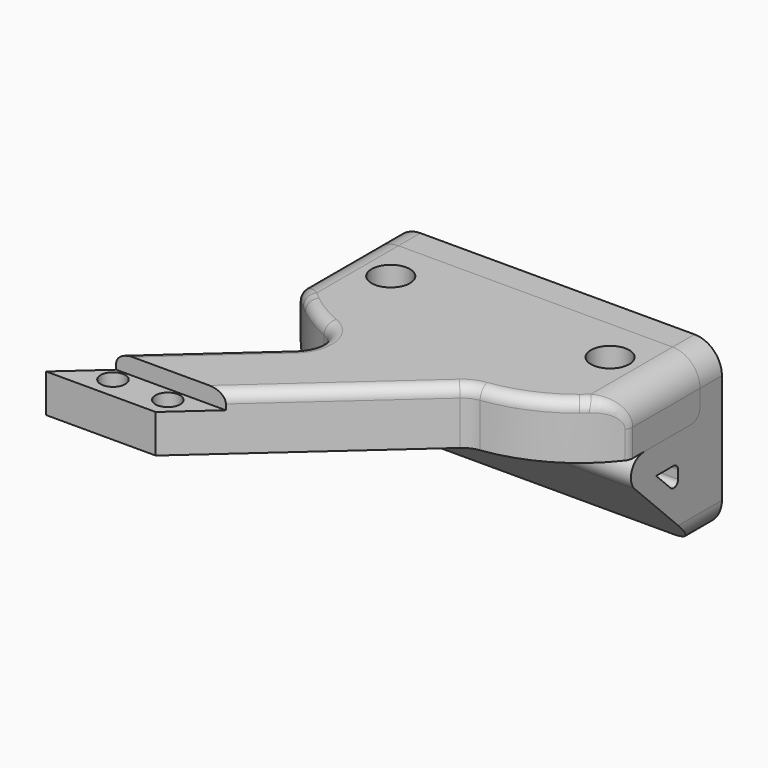
from build123d import *

# Parameters (mm, degrees)
SKETCH_W        = 60
SKETCH_H        = 30
SKETCH_R        = 1.7
PAD_DEPTH       = 5
PAD001_DEPTH    = 60
SKETCH002_R     = 2.25
POCKET_DEPTH    = 5
SKETCH003_R     = 3.5
POCKET001_DEPTH = 2
FILLET_R        = 3
FILLET001_R     = 5
FILLET002_R     = 1
FILLET003_R     = 2
SKETCH004_W     = 60
SKETCH004_H     = 10
PAD002_DEPTH    = 16
SKETCH005_R     = 1.7
POCKET002_DEPTH = 10
SKETCH006_R     = 3.5
POCKET003_DEPTH = 7
FILLET004_R     = 2
PAD003_DEPTH    = 10
PAD004_DEPTH    = 10
POCKET004_DEPTH = 3
SKETCH010_R     = 2.25
POCKET005_DEPTH = 5
FILLET005_R     = 5
FILLET006_R     = 5
FILLET007_R     = 5
FILLET008_R     = 2


with BuildPart() as base:
    # Sketch → Pad (new body)
    with BuildSketch(Plane.XZ):
        with Locations((0, -5)):
            Rectangle(SKETCH_W, SKETCH_H)
        with Locations((-20, 5)):
            Circle(SKETCH_R, mode=Mode.SUBTRACT)
        with Locations((20, 5)):
            Circle(SKETCH_R, mode=Mode.SUBTRACT)
    extrude(amount=PAD_DEPTH)

    # Sketch001 (on Face2 of Pad) → Pad001 (join)
    with BuildSketch(Plane(origin=(30, 0, 0), x_dir=(0, 0, 1), z_dir=(1, 0, 0))):
        Polygon((0, 5), (0, 25), (-20, 5), align=None)
        Polygon((-5, 15), (-5, 10), (-10, 10), align=None, mode=Mode.SUBTRACT)
    extrude(amount=-PAD001_DEPTH)

    # Sketch002 (on Face11 of Pad001) → Pocket (cut)
    with BuildSketch(Plane(origin=(0, 0, 0), x_dir=(-1, 0, 0), z_dir=(0, 0, 1))):
        with Locations((-20, 13)):
            Circle(SKETCH002_R)
        with Locations((20, 13)):
            Circle(SKETCH002_R)
    extrude(amount=-POCKET_DEPTH, mode=Mode.SUBTRACT)

    # Sketch003 (on Face5 of Pocket) → Pocket001 (cut)
    with BuildSketch(Plane.XZ.offset(5)):
        with Locations((-20, 5)):
            Circle(SKETCH003_R)
        with Locations((20, 5)):
            Circle(SKETCH003_R)
    extrude(amount=-POCKET001_DEPTH, mode=Mode.SUBTRACT)

    # Fillet
    fillet_edges = [base.edges().sort_by_distance(p)[0] for p in [
        (0, -25, 0),
    ]]
    fillet(fillet_edges, radius=FILLET_R)

    # Fillet001
    fillet001_edges = [base.edges().sort_by_distance(p)[0] for p in [
        (-30, -2.5, 10),
        (-30, -2.5, -20),
        (30, -2.5, 10),
        (30, -2.5, -20),
    ]]
    fillet(fillet001_edges, radius=FILLET001_R)

    # Fillet002
    fillet002_edges = [base.edges().sort_by_distance(p)[0] for p in [
        (0, -10, -10),
        (0, -10, -5),
    ]]
    fillet(fillet002_edges, radius=FILLET002_R)

    # Fillet003
    fillet003_edges = [base.edges().sort_by_distance(p)[0] for p in [
        (0, -5, 0),
    ]]
    fillet(fillet003_edges, radius=FILLET003_R)


with BuildPart() as arm0:
    # Sketch004 → Pad002 (new body)
    with BuildSketch(Plane.XZ):
        with Locations((0, 5)):
            Rectangle(SKETCH004_W, SKETCH004_H)
    extrude(amount=PAD002_DEPTH)

    # Sketch005 (on Face3 of Pad002) → Pocket002 (cut)
    with BuildSketch(Plane(origin=(0, 0, 10), x_dir=(-1, 0, 0), z_dir=(0, 0, 1))):
        with Locations((-20, 8)):
            Circle(SKETCH005_R)
        with Locations((20, 8)):
            Circle(SKETCH005_R)
    extrude(amount=-POCKET002_DEPTH, mode=Mode.SUBTRACT)

    # Sketch006 (on Face8 of Pocket002) → Pocket003 (cut)
    with BuildSketch(Plane(origin=(0, 0, 10), x_dir=(-1, 0, 0), z_dir=(0, 0, 1))):
        with Locations((-20, 8)):
            Circle(SKETCH006_R)
        with Locations((20, 8)):
            Circle(SKETCH006_R)
    extrude(amount=-POCKET003_DEPTH, mode=Mode.SUBTRACT)

    # Fillet004
    fillet004_edges = [arm0.edges().sort_by_distance(p)[0] for p in [
        (0, 0, 0),
    ]]
    fillet(fillet004_edges, radius=FILLET004_R)

    # Sketch007 (on Face9 of Fillet004) → Pad003 (join)
    with BuildSketch(Plane(origin=(0, 0, 10), x_dir=(-1, 0, 0), z_dir=(0, 0, 1))):
        with BuildLine():
            ThreePointArc((-10, 27.1293199325), (-21.227450266, 23.7704556006), (-30, 16))
            Line((-30, 16), (0, 16))
            Line((0, 16), (0, 27.1293199325))
            Line((-10, 27.1293199325), (0, 27.1293199325))
        make_face()
    pad003 = extrude(amount=-PAD003_DEPTH)

    # Mirrored: Pad003 across Sketch007 V_Axis
    add(pad003.mirror(Plane(origin=(0, 0, 10), x_dir=(0, 0, 1), z_dir=(-1, 0, 0))))

    # Sketch008 (on Face18 of Mirrored) → Pad004 (join)
    with BuildSketch(Plane(origin=(0, 0, 10), x_dir=(-1, 0, 0), z_dir=(0, 0, 1))):
        Polygon((10, 27.1293199325), (43.5628753921, 57.1293199325), (23.5628753921, 57.1293199325), (-10, 27.1293199325), align=None)
    extrude(amount=-PAD004_DEPTH)

    # Sketch009 (on Face23 of Pad004) → Pocket004 (cut)
    with BuildSketch(Plane(origin=(0, 0, 10), x_dir=(-1, 0, 0), z_dir=(0, 0, 1))):
        Polygon((23.5628753921, 57.1293199325), (43.5628753921, 57.1293199325), (36.1071580482, 50.4650661192), (16.1071580482, 50.4650661192), align=None)
    extrude(amount=-POCKET004_DEPTH, mode=Mode.SUBTRACT)

    # Sketch010 (on Face25 of Pocket004) → Pocket005 (cut)
    with BuildSketch(Plane(origin=(0, 0, 7), x_dir=(-1, 0, 0), z_dir=(0, 0, 1))):
        with Locations((24.5628753921, 53.1293199325)):
            Circle(SKETCH010_R)
        with Locations((34.5628753921, 53.1293199325)):
            Circle(SKETCH010_R)
    extrude(amount=-POCKET005_DEPTH, mode=Mode.SUBTRACT)

    # Fillet005
    fillet005_edges = [arm0.edges().sort_by_distance(p)[0] for p in [
        (-10, -27.12932, 5),
    ]]
    fillet(fillet005_edges, radius=FILLET005_R)

    # Fillet006
    fillet006_edges = [arm0.edges().sort_by_distance(p)[0] for p in [
        (10, -27.12932, 5),
    ]]
    fillet(fillet006_edges, radius=FILLET006_R)

    # Fillet007
    fillet007_edges = [arm0.edges().sort_by_distance(p)[0] for p in [
        (-30, -8, 10),
        (30, -8, 10),
    ]]
    fillet(fillet007_edges, radius=FILLET007_R)

    # Fillet008
    fillet008_edges = [arm0.edges().sort_by_distance(p)[0] for p in [
        (-26.587823, -41.956258, 10),
        (-3.658118, -39.337557, 10),
    ]]
    fillet(fillet008_edges, radius=FILLET008_R)


with BuildPart() as arm0_1:
    # Body001 placement: moved
    add(arm0.part.moved(Location((0, -5, 0))))


solid = Compound([base.part, arm0_1.part])
